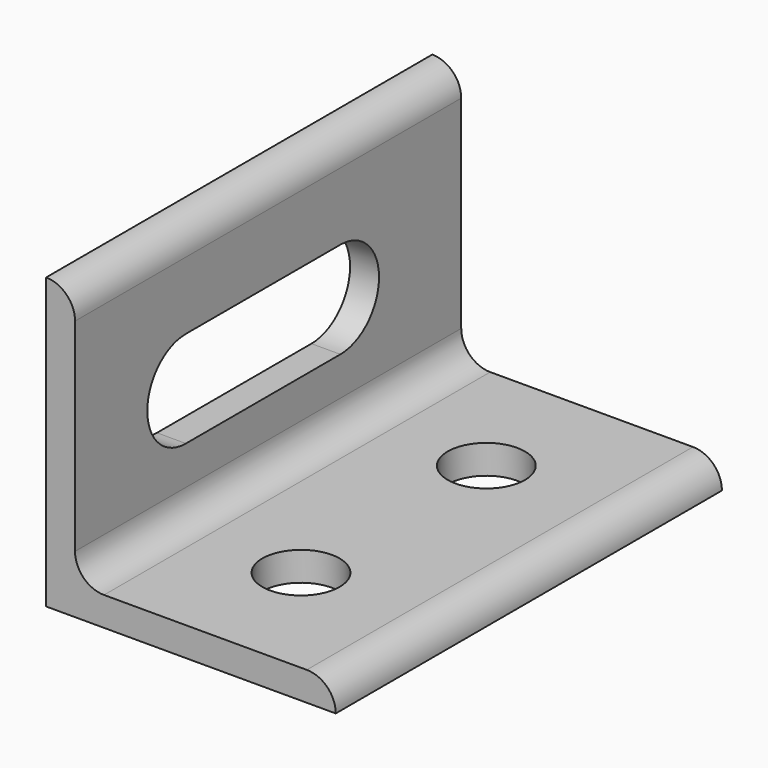
from build123d import *

# Parameters (mm, degrees)
F1_DEPTH      = 25
F1_DEPTH_BACK = 25
F2_R          = 4
F3_DEPTH      = 25
F6_DEPTH      = 25


with BuildPart() as f1:
    # F0 (on Front) → F1 (new body, two sides)
    with BuildSketch(Plane.XZ) as f1_sk:
        with BuildLine():
            Line((0, 30), (0, 0))
            Line((0, 0), (30, 0))
            ThreePointArc((30, 0), (29.12132, 2.12132), (27, 3))
            Line((27, 3), (6, 3))
            ThreePointArc((6, 3), (3.87868, 3.87868), (3, 6))
            Line((3, 6), (3, 27))
            ThreePointArc((3, 27), (2.12132, 29.12132), (0, 30))
        make_face()
    extrude(amount=F1_DEPTH)
    extrude(f1_sk.sketch, amount=-F1_DEPTH_BACK)

    # F2 (on Top) → F3 (cut)
    with BuildSketch(Plane.XY):
        with Locations((16, -12)):
            Circle(F2_R)
        with Locations((16, 12)):
            Circle(F2_R)
    extrude(amount=F3_DEPTH, mode=Mode.SUBTRACT)

    # F5 (on face) → F6 (cut)
    with BuildSketch(Plane(origin=(0, 0, 0), x_dir=(0, -1, 0), z_dir=(-1, 0, 0))):
        with BuildLine():
            ThreePointArc((-9.355084, 20), (-14.355084, 15), (-9.355084, 10))
            Line((-9.355084, 10), (10.644916, 10))
            ThreePointArc((10.644916, 10), (15.644916, 15), (10.644916, 20))
            Line((10.644916, 20), (-9.355084, 20))
        make_face()
    extrude(amount=-F6_DEPTH, mode=Mode.SUBTRACT)


solid = f1.part
